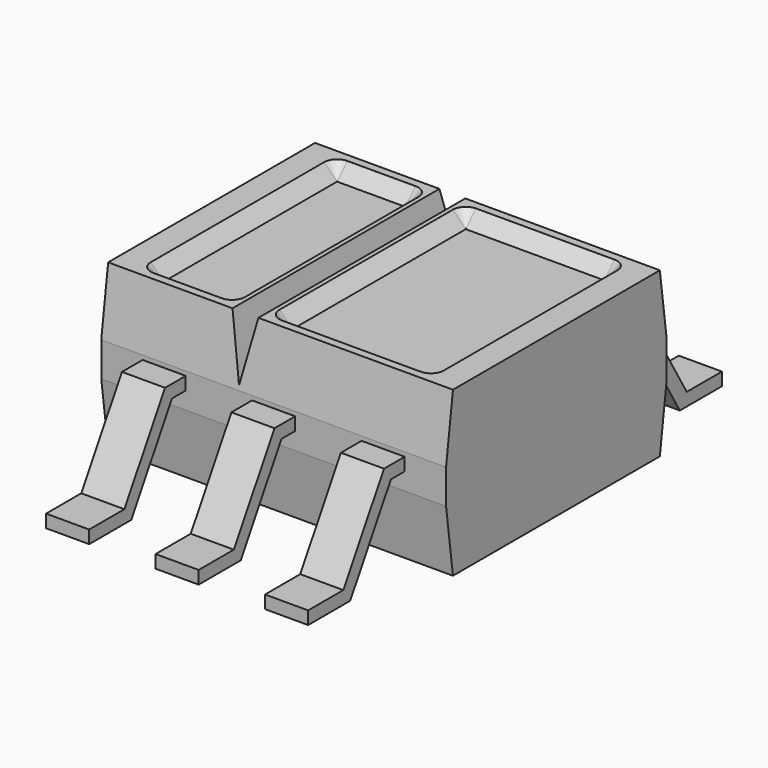
from build123d import *

# Parameters (mm, degrees)
PAD002_DEPTH    = 0.25
PAD003_DEPTH    = 0.25
SKETCH_W        = 4
SKETCH_H        = 3.2
PAD_DEPTH       = 0.95
POCKET_DEPTH    = 3.201
POCKET001_DEPTH = 0.15
POCKET002_DEPTH = 20
CHAMFER_SIZE    = 0.1499
PAD001_DEPTH    = 0.25


with BuildPart() as pad002:
    # Sketch003 → Pad002 (new body, symmetric)
    with BuildSketch(Plane.YZ):
        Polygon((-3, 0), (-2.39, 0), (-1.8, 1), (1.8, 1), (2.39, 0), (3, 0), (3, 0.15), (2.49, 0.15), (1.9, 1.15), (-1.9, 1.15), (-2.49, 0.15), (-3, 0.15), align=None)
    extrude(amount=PAD002_DEPTH, both=True)


with BuildPart() as pad003:
    # Sketch004 → Pad003 (new body, symmetric)
    with BuildSketch(Plane.YZ.offset(1.27)):
        Polygon((-3, 0), (-2.39, 0), (-1.8, 1), (1.8, 1), (2.39, 0), (3, 0), (3, 0.15), (2.49, 0.15), (1.9, 1.15), (-1.9, 1.15), (-2.49, 0.15), (-3, 0.15), align=None)
    extrude(amount=PAD003_DEPTH, both=True)


with BuildPart() as chamfer_body:
    # Sketch → Pad (new body, symmetric)
    with BuildSketch(Plane.XY.offset(1)):
        Rectangle(SKETCH_W, SKETCH_H)
    extrude(amount=PAD_DEPTH, both=True)

    # Sketch005 → Pocket (cut, through all)
    with BuildSketch(Plane(origin=(0, -1.6, 1), x_dir=(1, 0, 0), z_dir=(0, -1, 0))):
        Polygon((-0.557062, 0.95), (-0.407062, 0.25), (-0.257062, 0.95), align=None)
    extrude(amount=-POCKET_DEPTH, mode=Mode.SUBTRACT)

    # Sketch006 → Pocket001 (cut)
    with BuildSketch(Plane.XY.offset(1.95)):
        with BuildLine():
            Line((-0.757062, 1.406843), (-1.55, 1.406843))
            ThreePointArc((-1.55, 1.406843), (-1.656066, 1.362909), (-1.7, 1.256843))
            Line((-1.7, 1.256843), (-1.7, -1.256843))
            ThreePointArc((-1.7, -1.256843), (-1.656066, -1.362909), (-1.55, -1.406843))
            Line((-1.55, -1.406843), (-0.757062, -1.406843))
            ThreePointArc((-0.757062, -1.406843), (-0.650996, -1.362909), (-0.607062, -1.256843))
            Line((-0.607062, -1.256843), (-0.607062, 1.256843))
            ThreePointArc((-0.607062, 1.256843), (-0.650996, 1.362909), (-0.757062, 1.406843))
        make_face()
        with BuildLine():
            Line((-0.057062, 1.406843), (1.55, 1.406843))
            ThreePointArc((1.7, 1.256843), (1.656066, 1.362909), (1.55, 1.406843))
            Line((1.7, 1.256843), (1.7, -1.256843))
            ThreePointArc((1.55, -1.406843), (1.656066, -1.362909), (1.7, -1.256843))
            Line((1.55, -1.406843), (-0.057062, -1.406843))
            ThreePointArc((-0.207062, -1.256843), (-0.163128, -1.362909), (-0.057062, -1.406843))
            Line((-0.207062, -1.256843), (-0.207062, 1.256843))
            ThreePointArc((-0.057062, 1.406843), (-0.163128, 1.362909), (-0.207062, 1.256843))
        make_face()
    extrude(amount=-POCKET001_DEPTH, mode=Mode.SUBTRACT)

    # Sketch007 → Pocket002 (cut)
    with BuildSketch(Plane(origin=(2, 0, 1), x_dir=(0, 1, 0), z_dir=(1, 0, 0))):
        Polygon((-1.5, 0.95), (-1.6, 0.95), (-1.6, 0.2), align=None)
        Polygon((-1.6, -0.95), (-1.5, -0.95), (-1.6, -0.2), align=None)
        Polygon((1.6, 0.95), (1.6, 0.2), (1.5, 0.95), align=None)
        Polygon((1.6, -0.95), (1.6, -0.2), (1.5, -0.95), align=None)
    extrude(amount=-POCKET002_DEPTH, mode=Mode.SUBTRACT)

    # Chamfer
    chamfer_edges = [chamfer_body.edges().sort_by_distance(p)[0] for p in [
        (-1.7, 0, 1.8),
        (-1.656066, 1.362909, 1.8),
        (-1.153531, 1.406843, 1.8),
        (-0.163128, 1.362909, 1.8),
        (0.746469, 1.406843, 1.8),
        (-0.207062, 0, 1.8),
        (-1.656066, -1.362909, 1.8),
        (-1.153531, -1.406843, 1.8),
        (-0.650996, -1.362909, 1.8),
        (-0.163128, -1.362909, 1.8),
        (0.746469, -1.406843, 1.8),
        (1.656066, -1.362909, 1.8),
        (1.656066, 1.362909, 1.8),
        (1.7, 0, 1.8),
        (-0.650996, 1.362909, 1.8),
        (-0.607062, 0, 1.8),
    ]]
    chamfer(chamfer_edges, length=CHAMFER_SIZE)


with BuildPart() as obj1:
    # Sketch002 → Pad001 (new body, symmetric)
    with BuildSketch(Plane.YZ.offset(-1.27)):
        Polygon((-3, 0), (-2.39, 0), (-1.8, 1), (1.8, 1), (2.39, 0), (3, 0), (3, 0.15), (2.49, 0.15), (1.9, 1.15), (-1.9, 1.15), (-2.49, 0.15), (-3, 0.15), align=None)
    extrude(amount=PAD001_DEPTH, both=True)

    add(pad002.part)
    add(pad003.part)
    add(chamfer_body.part)


solid = obj1.part
